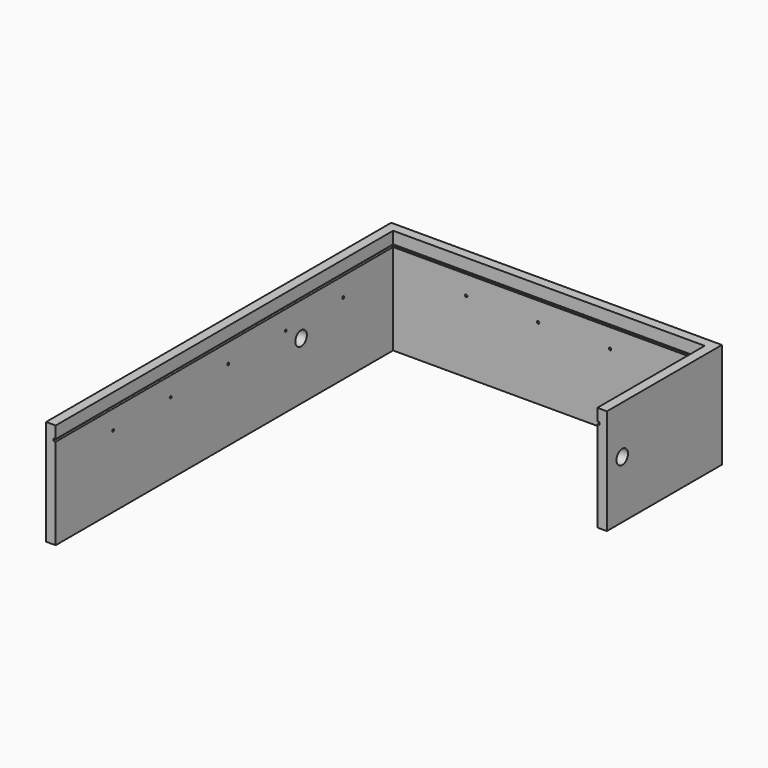
from build123d import *

# Parameters (mm, degrees)
F1_DEPTH  = 220
F2_W      = 5
F2_H      = 5
F3_DEPTH  = 885
F4_W      = 650
F4_H      = 5
F5_DEPTH  = 5
F6_W      = 5
F6_H      = 5
F7_DEPTH  = 285
F8_R      = 15
F9_DEPTH  = 800
F10_R     = 2.5
F11_DEPTH = 25
F12_R     = 2.5
F13_DEPTH = 25


with BuildPart() as f1:
    # F0 (on Top) → F1 (new body)
    with BuildSketch(Plane.XY):
        Polygon((-345, -450), (-325, -450), (-325, -430), (-325, 430), (325, 430), (325, 150), (345, 150), (345, 450), (-345, 450), align=None)
    extrude(amount=F1_DEPTH)

    # F2 (on face) → F3 (cut)
    with BuildSketch(Plane.XZ.offset(450)):
        with Locations((-327.5, 192.5)):
            Rectangle(F2_W, F2_H)
    extrude(amount=-F3_DEPTH, mode=Mode.SUBTRACT)

    # F4 (on face) → F5 (cut)
    with BuildSketch(Plane.XZ.offset(-430)):
        with Locations((0, 192.5)):
            Rectangle(F4_W, F4_H)
    extrude(amount=-F5_DEPTH, mode=Mode.SUBTRACT)

    # F6 (on face) → F7 (cut)
    with BuildSketch(Plane.XZ.offset(-150)):
        with Locations((327.5, 192.5)):
            Rectangle(F6_W, F6_H)
    extrude(amount=-F7_DEPTH, mode=Mode.SUBTRACT)

    # F8 (on face) → F9 (cut)
    with BuildSketch(Plane.YZ.offset(345)):
        with Locations((190, 120)):
            Circle(F8_R)
    extrude(amount=-F9_DEPTH, mode=Mode.SUBTRACT)

    # F10 (on face) → F11 (cut)
    with BuildSketch(Plane.YZ.offset(-325)):
        with Locations((-300, 150)):
            Circle(F10_R)
        with Locations((-150, 150)):
            Circle(F10_R)
        with Locations((0, 150)):
            Circle(F10_R)
        with Locations((150, 150)):
            Circle(F10_R)
        with Locations((300, 150)):
            Circle(F10_R)
    extrude(amount=-F11_DEPTH, mode=Mode.SUBTRACT)

    # F12 (on face) → F13 (cut)
    with BuildSketch(Plane.XZ.offset(-430)):
        with Locations((-172.5, 150)):
            Circle(F12_R)
        with Locations((-22.5, 150)):
            Circle(F12_R)
        with Locations((127.5, 150)):
            Circle(F12_R)
    extrude(amount=-F13_DEPTH, mode=Mode.SUBTRACT)


solid = f1.part
